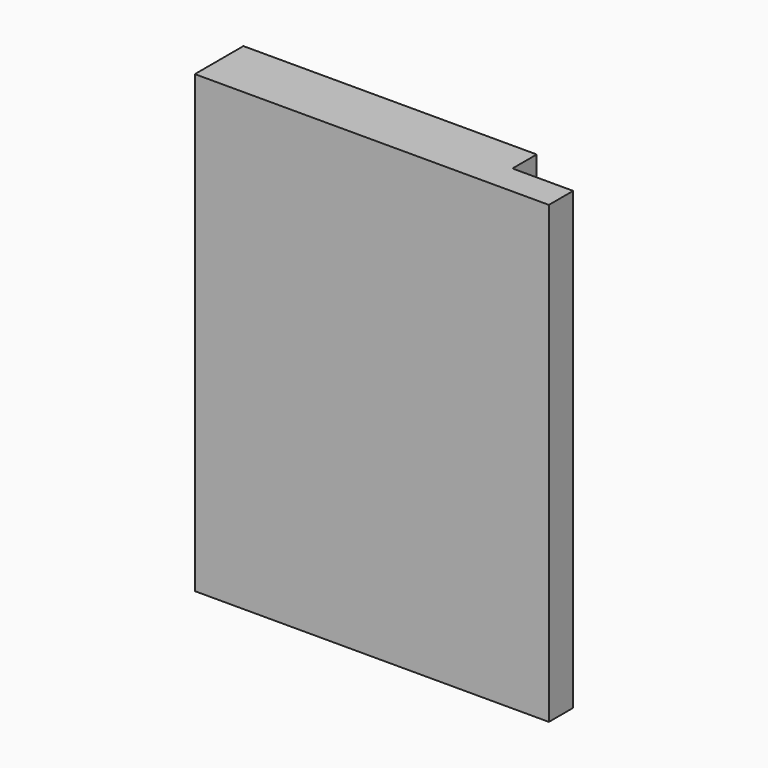
from build123d import *

# Parameters (mm, degrees)
F0_W     = 104.6584993601
F0_H     = 150
F0_W_2   = 12.0081673066
F1_DEPTH = 20
F2_W     = 20
F2_H     = 10
F3_DEPTH = 180


with BuildPart() as f1:
    # F0 (on Front) → F1 (new body)
    with BuildSketch(Plane.XZ):
        with Locations((-52.32924968, 75)):
            Rectangle(F0_W, F0_H)
        with Locations((-110.6625830134, 75)):
            Rectangle(F0_W_2, F0_H)
    extrude(amount=F1_DEPTH)

    # F2 (on face) → F3 (cut)
    with BuildSketch(Plane(origin=(0, 0, 0), x_dir=(1, 0, 0), z_dir=(0, 0, -1))):
        with Locations((-10, 5)):
            Rectangle(F2_W, F2_H)
    extrude(amount=-F3_DEPTH, mode=Mode.SUBTRACT)


solid = f1.part
